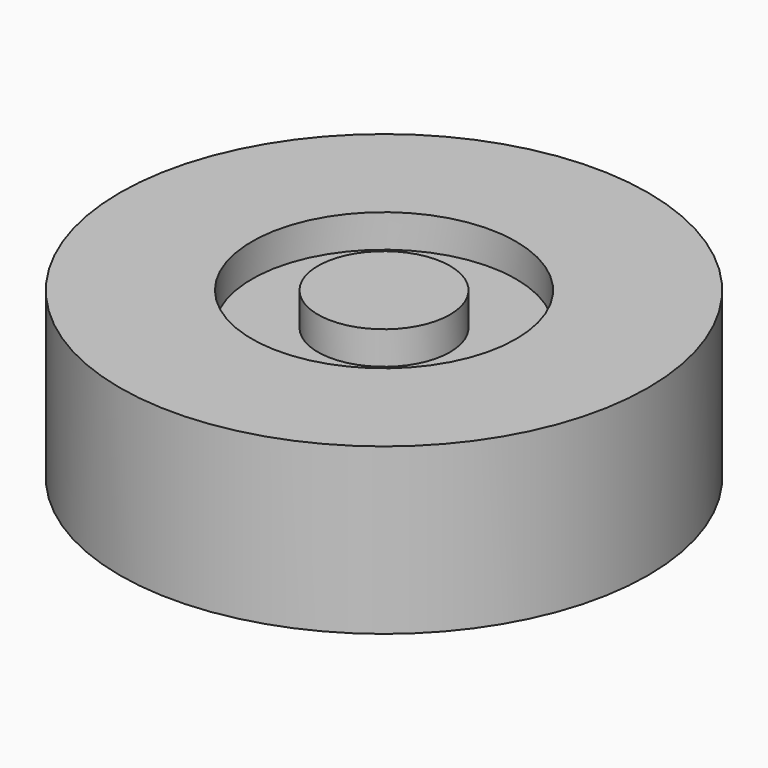
from build123d import *

# Parameters (mm, degrees)
F0_R     = 10.16
F0_R_2   = 5.08
F1_DEPTH = 6.35
F0_R_3   = 2.54
F2_DEPTH = 5.08


with BuildPart() as f1:
    # F0 (on Top) → F1 (new body)
    with BuildSketch(Plane.XY):
        Circle(F0_R)
        Circle(F0_R_2, mode=Mode.SUBTRACT)
    extrude(amount=F1_DEPTH)



with BuildPart() as f1b:
    # F0 (on Top) → F1, piece 2 (new body)
    with BuildSketch(Plane.XY):
        Circle(F0_R_3)
    extrude(amount=F1_DEPTH)


with BuildPart() as f1_1:
    add(f1.part)

    add(f1b.part)  # F2 merges F1b
    # F0 (on Top) → F2 (join)
    with BuildSketch(Plane.XY):
        Circle(F0_R)
        Circle(F0_R_2, mode=Mode.SUBTRACT)
        Circle(F0_R_2)
        Circle(F0_R_3, mode=Mode.SUBTRACT)
    extrude(amount=F2_DEPTH)


solid = f1_1.part
